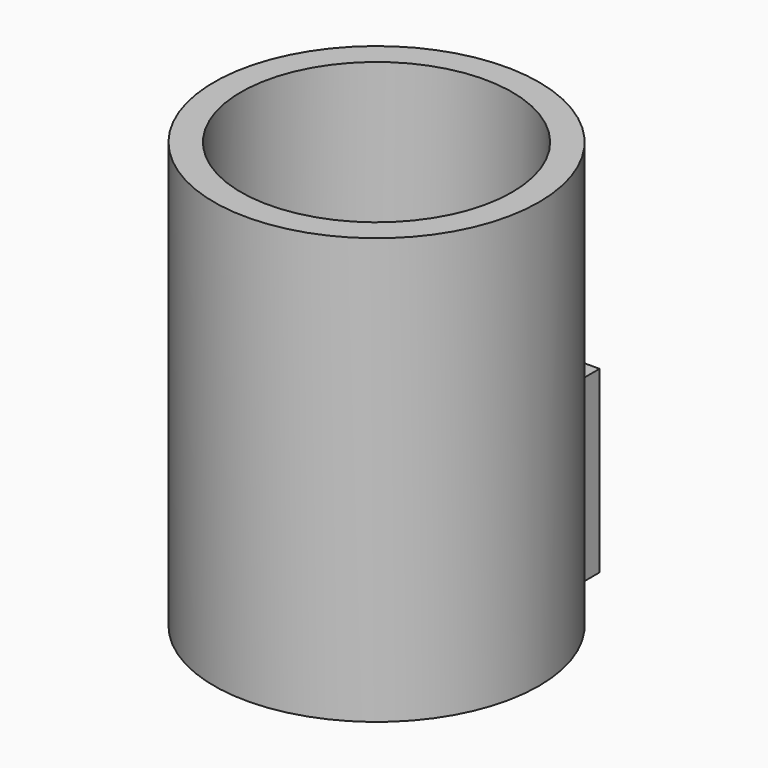
from build123d import *

# Parameters (mm, degrees)
F1_DEPTH = 8
F2_R     = 7.25
F2_R_2   = 6.05
F3_DEPTH = 19


with BuildPart() as f1:
    # F0 (on Top) → F1 (new body)
    with BuildSketch(Plane.XY):
        Polygon((1.05, 0), (0, 0), (-1.05, 0), (-1.05, 8), (-3.55, 8), (-3.55, -2.5), (0, -2.5), (3.55, -2.5), (3.55, 8), (1.05, 8), align=None)
    extrude(amount=F1_DEPTH)


with BuildPart() as f3:
    # F2 (on Top) → F3 (new body)
    with BuildSketch(Plane.XY):
        Circle(F2_R)
        Circle(F2_R_2, mode=Mode.SUBTRACT)
    extrude(amount=F3_DEPTH)


solid = Compound([f1.part, f3.part])
